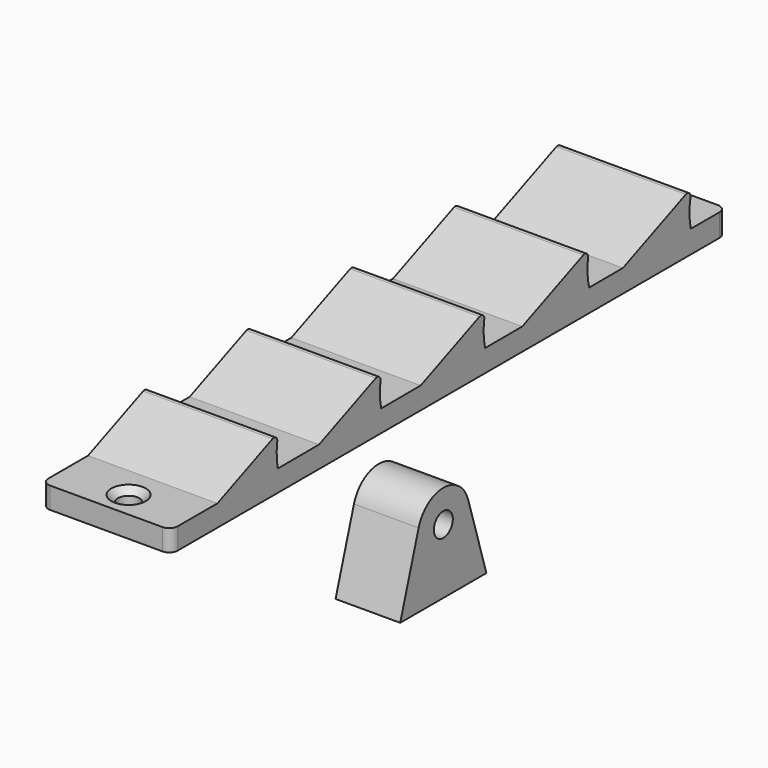
from build123d import *

# Parameters (mm, degrees)
F1_DEPTH       = 30
F2_R           = 2
F3_R           = 1
F5_D           = 5
F5_CSINK_D     = 8
F5_CSINK_ANGLE = 90
F7_D           = 5
F7_CSINK_D     = 8
F7_CSINK_ANGLE = 90
F8_R           = 2.75
F9_DEPTH       = 15


with BuildPart() as f1:
    # F0 (on Right) → F1 (new body)
    with BuildSketch(Plane.YZ):
        with BuildLine():
            Line((-114.335611, 1.639002), (-103.282312, 1.639002))
            Line((-103.282312, 1.639002), (-103.19238, 1.639002))
            Line((-103.19238, 1.639002), (36.717688, 1.639002))
            Line((36.717688, 1.639002), (46.717688, 1.639002))
            Line((46.717688, 1.639002), (46.717688, 5.639002))
            Line((46.717688, 5.639002), (46.717688, 6.883289))
            Line((46.717688, 6.883289), (36.389513, 6.883289))
            ThreePointArc((36.389513, 6.883289), (36.026758, 11.097664), (36.776017, 15.260735))
            Line((36.776017, 15.260735), (16.717688, 6.883289))
            Line((16.717688, 6.883289), (6.915737, 6.856559))
            ThreePointArc((6.915737, 6.856559), (6.430977, 10.892172), (6.974065, 14.92035))
            Line((6.974065, 14.92035), (-12.459779, 6.803723))
            Line((-12.459779, 6.803723), (-23.238242, 6.77433))
            ThreePointArc((-23.238242, 6.77433), (-23.658847, 10.684605), (-23.117268, 14.579968))
            Line((-23.117268, 14.579968), (-41.928537, 6.723361))
            Line((-41.928537, 6.723361), (-53.387725, 6.692112))
            ThreePointArc((-53.387725, 6.692112), (-53.747579, 10.476515), (-53.208595, 14.239585))
            Line((-53.208595, 14.239585), (-71.397287, 6.643))
            Line((-71.397287, 6.643), (-83.343368, 6.610423))
            ThreePointArc((-83.343368, 6.610423), (-83.671143, 10.325154), (-83.134051, 14.015437))
            Line((-83.134051, 14.015437), (-100.864061, 6.610423))
            Line((-100.864061, 6.610423), (-114.335611, 6.610423))
            Line((-114.335611, 6.610423), (-114.335611, 1.639002))
        make_face()
    extrude(amount=F1_DEPTH)

    # F2
    f2_edges = [f1.edges().sort_by_distance(p)[0] for p in [
        (0, -114.335611, 4.124713),
        (30, -114.335611, 4.124713),
        (0, 46.717688, 4.261146),
        (30, 46.717688, 4.261146),
    ]]
    fillet(f2_edges, radius=F2_R)

    # F3
    f3_edges = [f1.edges().sort_by_distance(p)[0] for p in [
        (15, 36.776017, 15.260735),
        (15, 6.974065, 14.92035),
        (15, -23.117268, 14.579968),
        (15, -53.208595, 14.239585),
        (15, -83.134051, 14.015437),
    ]]
    fillet(f3_edges, radius=F3_R)

    # F5 (through all)
    with Locations(Plane.XY.offset(6.610423)):
        with Locations((15.335711, -108.282417)):
            CounterSinkHole(F5_D / 2, F5_CSINK_D / 2, counter_sink_angle=F5_CSINK_ANGLE)

    # F7 (through all)
    with Locations(Plane.XY.offset(6.883289)):
        with Locations((15.114769, 41.508552)):
            CounterSinkHole(F7_D / 2, F7_CSINK_D / 2, counter_sink_angle=F7_CSINK_ANGLE)


with BuildPart() as f9:
    # F8 (on Right) → F9 (new body)
    with BuildSketch(Plane.YZ):
        with BuildLine():
            Line((-4.106375, -51.830195), (-9.442447, -34.610255))
            ThreePointArc((-9.442447, -34.610255), (-16.606375, -29.330195), (-23.770303, -34.610255))
            Line((-23.770303, -34.610255), (-29.106375, -51.830195))
            Line((-29.106375, -51.830195), (-4.106375, -51.830195))
        make_face()
        with Locations((-16.606375, -36.830195)):
            Circle(F8_R, mode=Mode.SUBTRACT)
    extrude(amount=F9_DEPTH)


solid = Compound([f1.part, f9.part])
